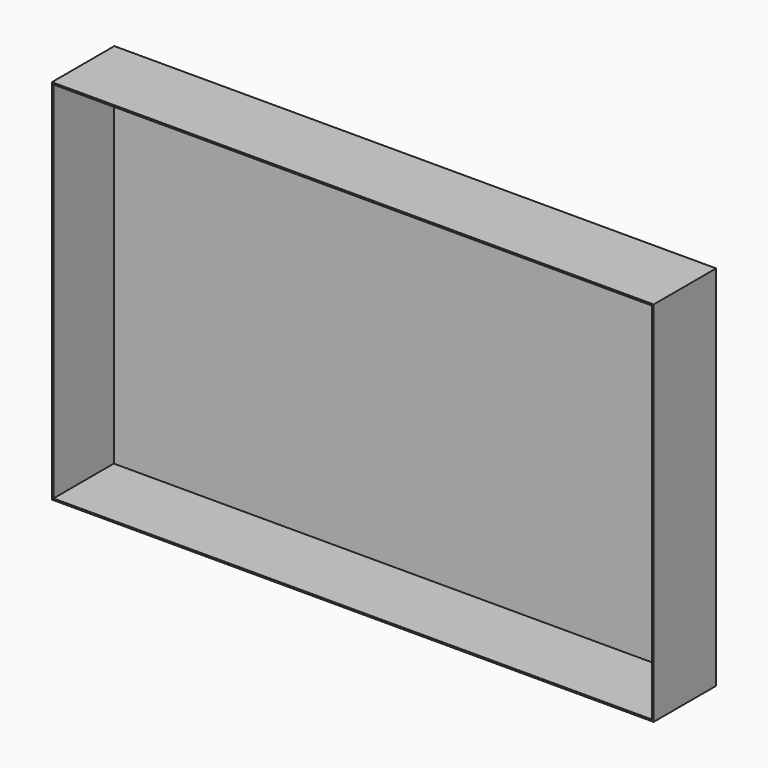
from build123d import *

# Parameters (mm, degrees)
F0_W     = 1156
F0_H     = 706
F0_W_2   = 1150
F0_H_2   = 700
F1_DEPTH = 150
F2_W     = 5
F2_H     = 706
F3_DEPTH = 1153


with BuildPart() as f1:
    # F0 (on Front) → F1 (new body)
    with BuildSketch(Plane.XZ):
        with Locations((503.755269, -311.657544)):
            Rectangle(F0_W, F0_H)
        with Locations((503.755269, -311.657544)):
            Rectangle(F0_W_2, F0_H_2, mode=Mode.SUBTRACT)
    extrude(amount=F1_DEPTH)

    # F2 (on face) → F3 (join, through all)
    with BuildSketch(Plane(origin=(-74.244731, 0, 0), x_dir=(0, -1, 0), z_dir=(-1, 0, 0))):
        with Locations((2.5, -311.657544)):
            Rectangle(F2_W, F2_H)
    extrude(amount=-F3_DEPTH)


solid = f1.part
